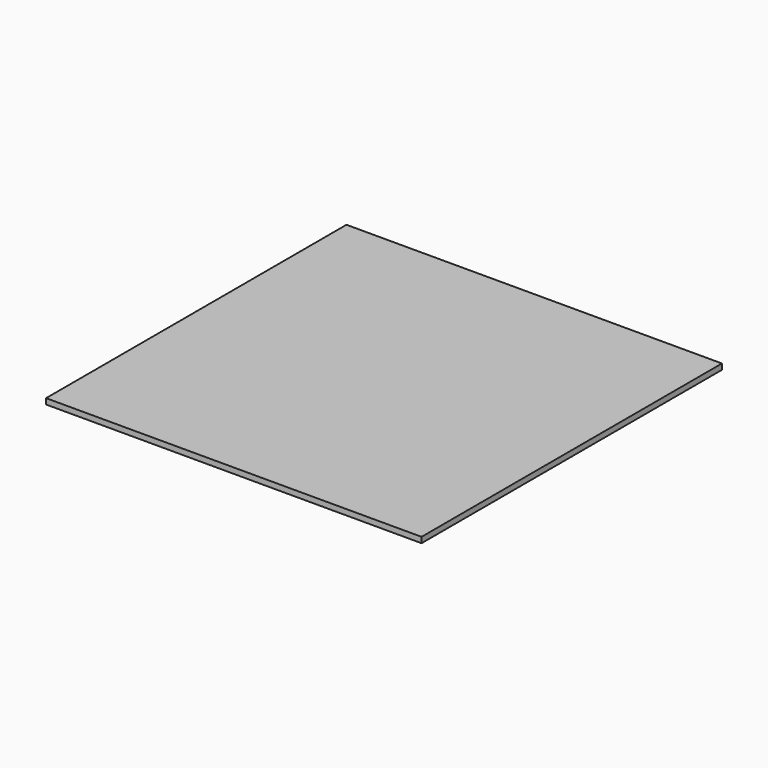
from build123d import *

# Parameters (mm, degrees)
SKETCH_W     = 199.8
SKETCH_H     = 199.8
PAD_DEPTH    = 3
SKETCH001_R  = 1.5
POCKET_DEPTH = 2.5


with BuildPart() as part:
    # Sketch → Pad (new body)
    with BuildSketch(Plane.XY):
        with Locations((99.9, -99.9)):
            Rectangle(SKETCH_W, SKETCH_H)
    extrude(amount=-PAD_DEPTH)

    # Sketch001 (on Face6 of Pad) → Pocket (cut)
    with BuildSketch(Plane(origin=(0, 0, -3), x_dir=(1, 0, 0), z_dir=(0, 0, -1))):
        with Locations((10, 10)):
            Circle(SKETCH001_R)
        with Locations((189.8, 10)):
            Circle(SKETCH001_R)
        with Locations((10, 189.8)):
            Circle(SKETCH001_R)
        with Locations((189.8, 189.8)):
            Circle(SKETCH001_R)
    extrude(amount=-POCKET_DEPTH, mode=Mode.SUBTRACT)


solid = part.part
